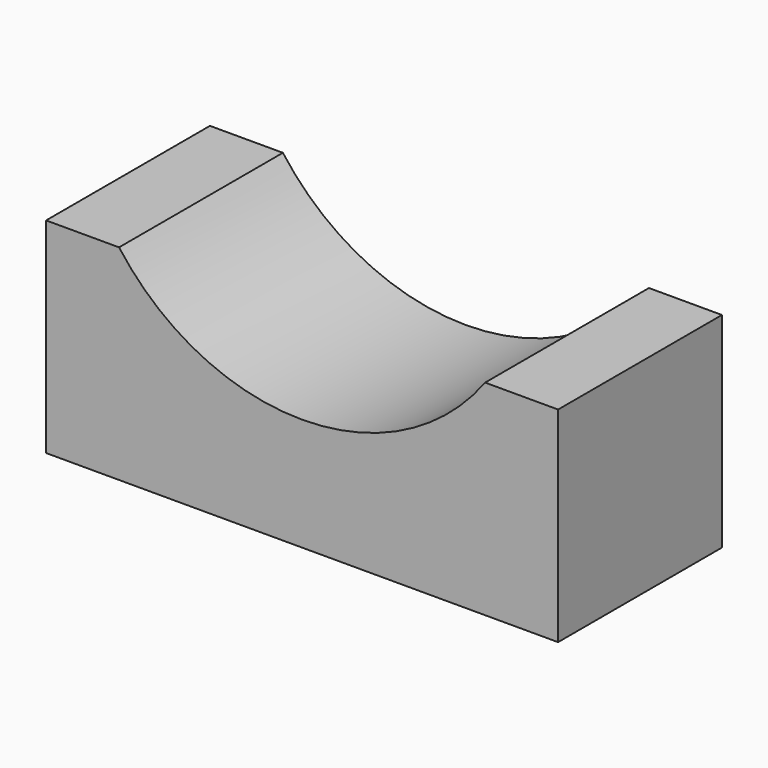
from build123d import *

# Parameters (mm, degrees)
F0_W     = 50
F0_H     = 20
F1_DEPTH = 20
F2_R     = 22.25
F3_DEPTH = 25


with BuildPart() as f1:
    # F0 (on Top) → F1 (new body)
    with BuildSketch(Plane.XY):
        Rectangle(F0_W, F0_H)
    extrude(amount=F1_DEPTH)

    # F2 (on face) → F3 (cut)
    with BuildSketch(Plane.XZ.offset(10)):
        with Locations((0, 33.25)):
            Circle(F2_R)
    extrude(amount=-F3_DEPTH, mode=Mode.SUBTRACT)


solid = f1.part
